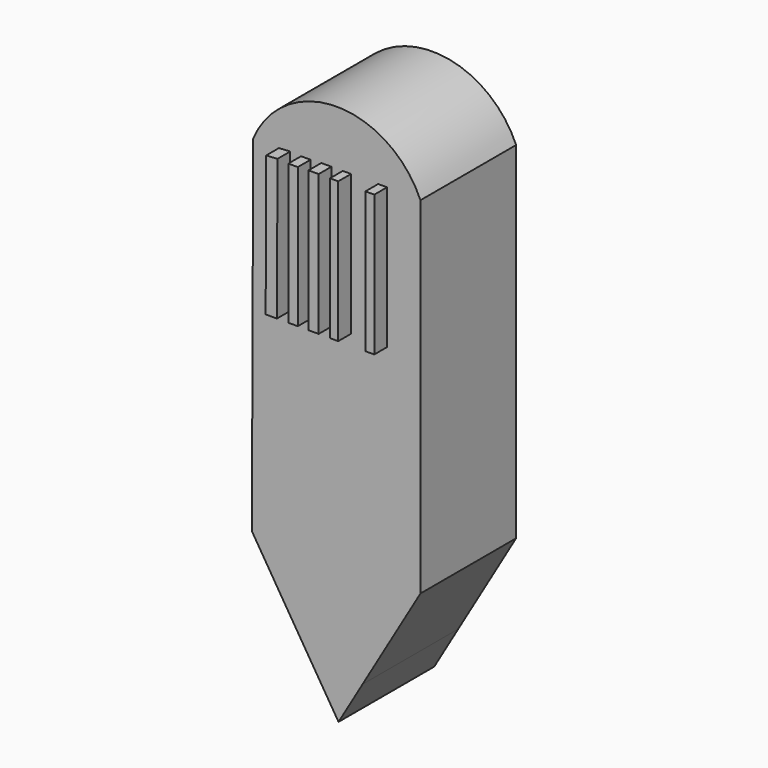
from build123d import *

# Parameters (mm, degrees)
F1_DEPTH = 38.1
F2_W     = 3.020811
F2_H     = 44.635244
F2_W_2   = 3.2222
F2_H_2   = 44.836629
F2_W_3   = 2.618038
F2_W_4   = 2.819423
F3_DEPTH = 5.08


with BuildPart() as f1:
    # F0 (on Front) → F1 (new body)
    with BuildSketch(Plane.XZ):
        Polygon((16.942143, 44.659857), (-36.352359, 44.659857), (-36.762383, -65.636605), (-17.255633, -97.091005), (-1.502697, -97.091005), (16.942143, -65.636605), align=None)
        with BuildLine():
            ThreePointArc((16.942143, 44.659857), (-9.705108, 62.248629), (-36.352359, 44.659857))
            Line((-36.352359, 44.659857), (16.942143, 44.659857))
        make_face()
        Polygon((-1.502697, -97.091005), (-17.255633, -97.091005), (-9.158776, -110.147089), align=None)
    extrude(amount=F1_DEPTH)

    # F2 (on face) → F3 (join)
    with BuildSketch(Plane.XZ.offset(38.1)):
        Polygon((-24.548945, 44.838252), (-28.140236, 44.635244), (-28.306166, 0), (-24.71568, -0.013348), align=None)
        with Locations((-19.581269, 22.317622)):
            Rectangle(F2_W, F2_H)
        with Locations((-13.036178, 22.418314)):
            Rectangle(F2_W_2, F2_H_2)
        with Locations((-6.491086, 22.418314)):
            Rectangle(F2_W_3, F2_H_2)
        with Locations((4.887302, 22.418314)):
            Rectangle(F2_W_4, F2_H_2)
    extrude(amount=F3_DEPTH)


solid = f1.part
